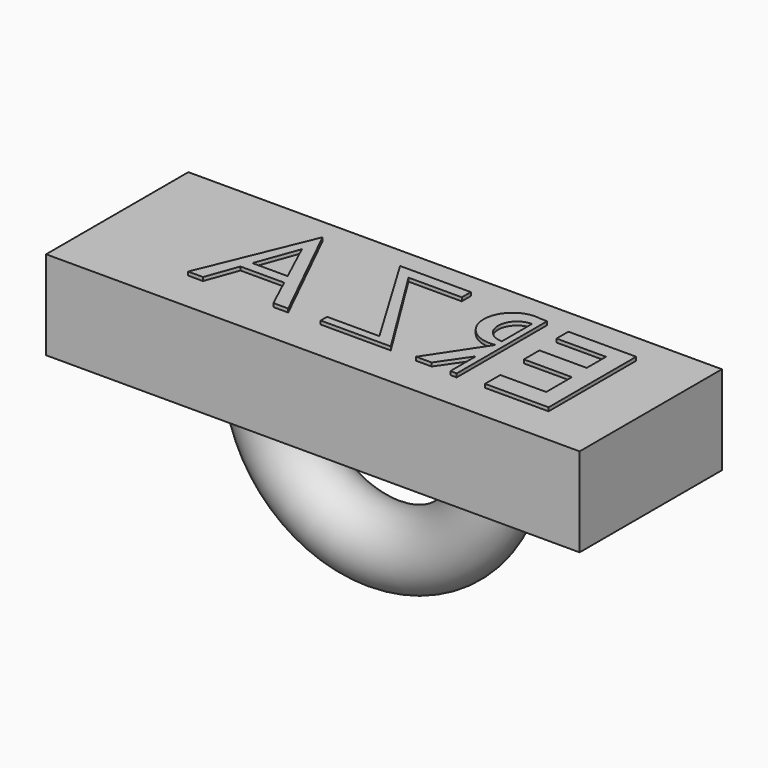
from build123d import *

# Parameters (mm, degrees)
F0_W     = 150
F0_H     = 50
F1_DEPTH = 25
F3_DEPTH = 1
F4_R     = 10
F5_ANGLE = -180


with BuildPart() as f1:
    # F0 (on Top) → F1 (new body)
    with BuildSketch(Plane.XY):
        Rectangle(F0_W, F0_H)
    extrude(amount=F1_DEPTH)

    # F2 (on face) → F3 (join)
    with BuildSketch(Plane.XY.offset(25)):
        Polygon((-20.35143, -13.440839), (-16.17611, -13.440839), (-31.457786, 17.728945), (-44.317774, -13.440839), (-40.142454, -13.440839), (-36.851476, -4.382354), (-24.560086, -4.382354), align=None)
        Polygon((-35.80012, -1.488477), (-31.457786, 10.463886), (-25.904608, -1.488477), align=None, mode=Mode.SUBTRACT)
        Polygon((10.236647, 14.533813), (10.236647, 17.707057), (-6.715158, 17.707057), (-9.637882, 17.707057), (7.647947, -11.186166), (-7.049183, -11.186166), (-7.049183, -13.440839), (12.658333, -13.440839), (-4.741451, 14.533813), align=None)
        with BuildLine():
            Line((30.189158, -5.461854), (30.189158, -14.399434))
            Line((30.189158, -14.399434), (31.969018, -14.419133))
            Line((31.969018, -14.419133), (31.969018, 17.378626))
            Line((31.969018, 17.378626), (30.189158, 17.378626))
            ThreePointArc((30.189158, 17.378626), (20.49841, 9.434111), (30.189158, 1.489596))
            Line((30.189158, 1.489596), (20.0599, -13.803595))
            Line((20.0599, -13.803595), (24.429381, -13.803595))
            Line((24.429381, -13.803595), (30.189158, -5.461854))
        make_face()
        with BuildLine():
            ThreePointArc((30.189158, 3.674338), (24.891917, 8.987233), (30.189158, 14.300127))
            Line((30.189158, 14.300127), (30.189158, 3.674338))
        make_face(mode=Mode.SUBTRACT)
        Polygon((57.79634, 16.385563), (38.729511, 16.385563), (38.729511, 12.214691), (52.63241, 12.214691), (52.63241, 5.461854), (39.325345, 5.461854), (39.325345, 0), (52.83102, 0), (52.83102, -9.036886), (39.921183, -9.036886), (39.921183, -14.399434), (57.79634, -14.399434), align=None)
    extrude(amount=F3_DEPTH)

    # F4 (on face) → F5 (revolve)
    with BuildSketch(Plane(origin=(0, 0, 0), x_dir=(1, 0, 0), z_dir=(0, 0, -1))):
        with Locations((32.374486, 0)):
            Circle(F4_R)
    revolve(axis=Axis((0, -0.202699, 0), (0, -1, 0)), revolution_arc=F5_ANGLE)


solid = f1.part
